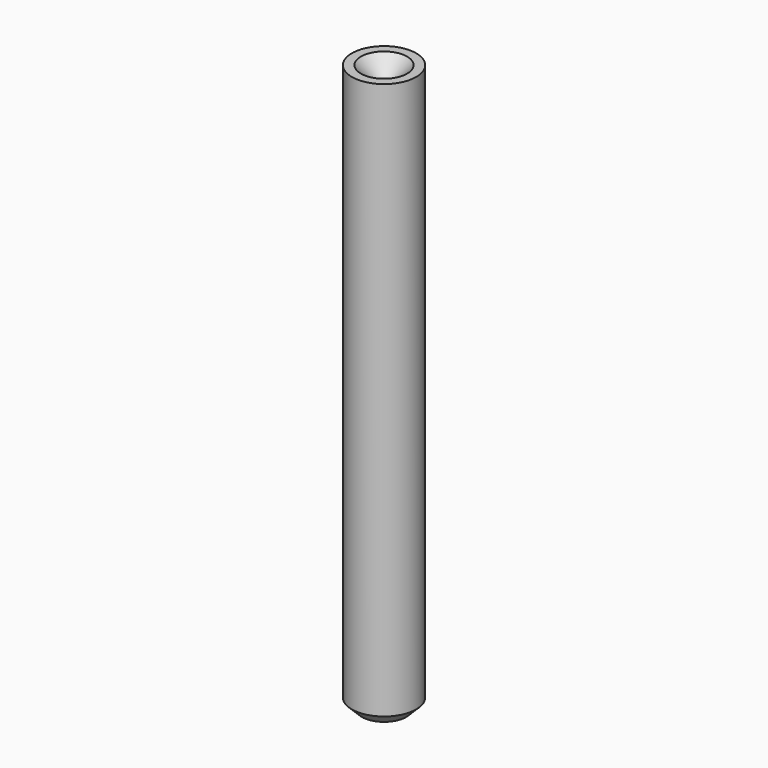
from build123d import *

# Parameters (mm, degrees)
F0_R     = 3.25
F0_R_2   = 0.335
F1_DEPTH = 57.25
F2_SIZE  = 2
F3_SIZE  = 1


with BuildPart() as f1:
    # F0 (on Top) → F1 (new body)
    with BuildSketch(Plane.XY):
        Circle(F0_R)
        Circle(F0_R_2, mode=Mode.SUBTRACT)
    extrude(amount=F1_DEPTH)

    # F2
    f2_edges = [f1.edges().sort_by_distance(p)[0] for p in [
        (-0.335, 0, 57.25),
    ]]
    chamfer(f2_edges, length=F2_SIZE)

    # F3
    f3_edges = [f1.edges().sort_by_distance(p)[0] for p in [
        (-3.25, 0, 0),
    ]]
    chamfer(f3_edges, length=F3_SIZE)


solid = f1.part
